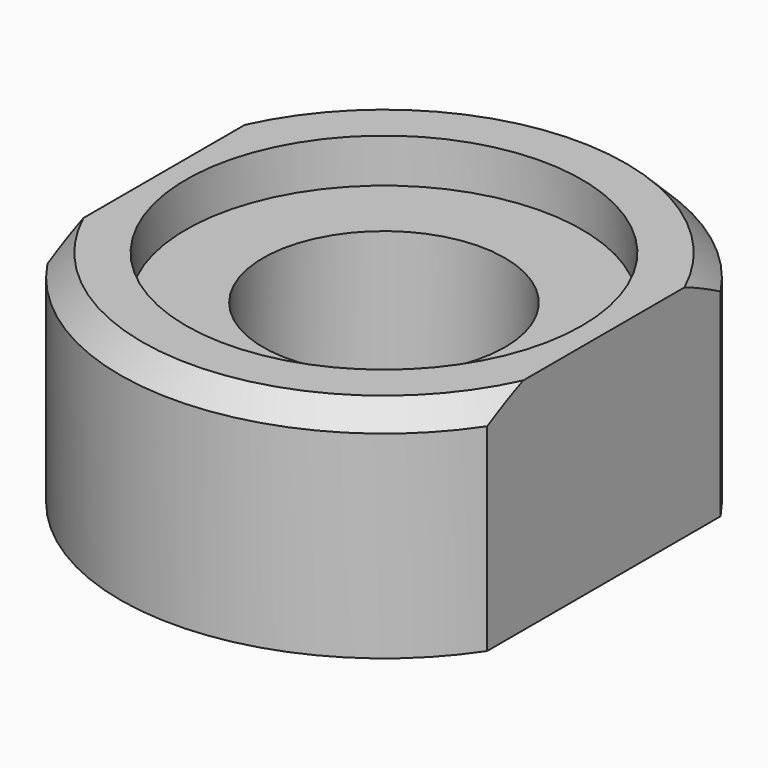
from build123d import *

# Parameters (mm, degrees)
F0_R     = 5.5
F1_DEPTH = 10
F2_R     = 9
F2_R_2   = 5.5
F3_DEPTH = 2
F4_SIZE  = 1


with BuildPart() as f1:
    # F0 (on Top) → F1 (new body)
    with BuildSketch(Plane.XY):
        with BuildLine():
            Line((10, -6.63325), (10, 6.63325))
            ThreePointArc((10, 6.63325), (0, 12), (-10, 6.63325))
            Line((-10, 6.63325), (-10, -6.63325))
            ThreePointArc((-10, -6.63325), (0, -12), (10, -6.63325))
        make_face()
        Circle(F0_R, mode=Mode.SUBTRACT)
    extrude(amount=F1_DEPTH)

    # F2 (on face) → F3 (cut)
    with BuildSketch(Plane.XY.offset(10)):
        Circle(F2_R)
        Circle(F2_R_2, mode=Mode.SUBTRACT)
    extrude(amount=-F3_DEPTH, mode=Mode.SUBTRACT)

    # F4
    f4_edges = [f1.edges().sort_by_distance(p)[0] for p in [
        (0, -12, 10),
        (0, 12, 10),
    ]]
    chamfer(f4_edges, length=F4_SIZE)


solid = f1.part
